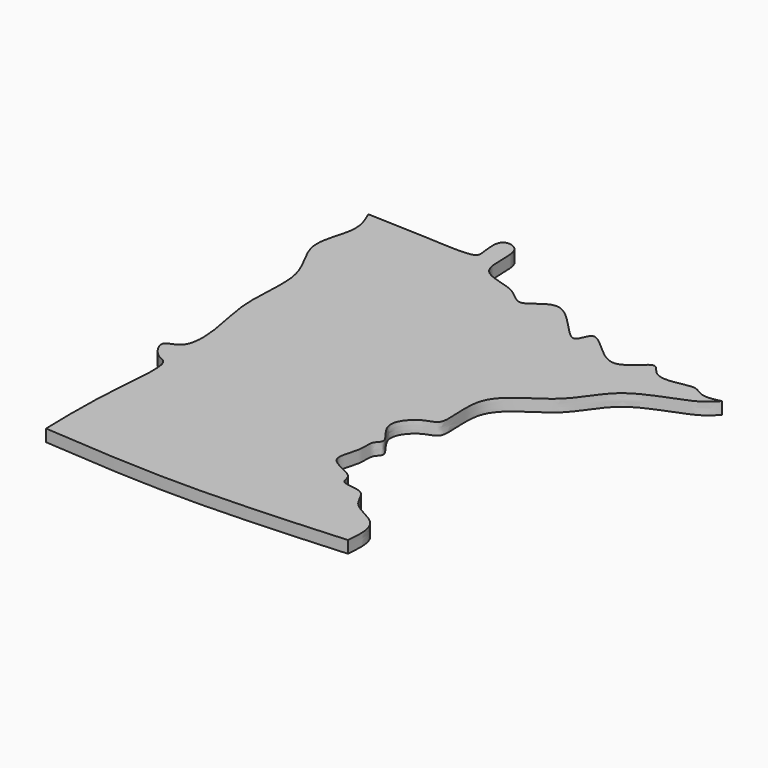
from build123d import *

# Parameters (mm, degrees)
F1_DEPTH = 3.175


with BuildPart() as f1:
    # F0 (on Top) → F1 (new body)
    with BuildSketch(Plane.XY):
        with BuildLine():
            add(Edge.make_bspline(
                [(-41.1111339927, 55.6392408907), (-36.2707867092, 55.4956637956), (-26.9903605617, 55.2203825916), (-12.5990621928, 54.1422364983), (-11.7507091659, 56.5533934537), (-13.6576304433, 64.326522536), (-5.3713743266, 63.0377239925), (-9.3307810358, 49.288798607), (3.4387049214, 49.0835573145), (7.8938352698, 41.8224343737), (15.5158704544, 53.166021384), (27.0758999149, 34.0386325293), (28.0946903161, 46.5942054186), (39.383222098, 30.0769485144), (46.7085098637, 42.5260456605), (49.2750974865, 35.5897374192), (56.4839388404, 36.8672779097), (59.8825393511, 37.6227169623), (62.838962457, 35.0193620859), (65.8765595888, 35.7135302674), (67.5213932991, 36.0894165933)],
                knots=[0, 0, 0, 0, 0.0820902353, 0.1573920882, 0.1855427243, 0.2379642218, 0.2804740162, 0.3481041026, 0.4144347034, 0.4660046755, 0.5250844196, 0.6040809382, 0.6461759459, 0.7200448096, 0.7808114931, 0.8235493982, 0.8776338092, 0.9164770627, 0.9547730206, 1, 1, 1, 1], degree=3))
            add(Edge.make_bspline(
                [(-41.1111339927, 55.6392408907), (-40.1049119025, 53.3508370067), (-37.8987302417, 48.3334211389), (-43.6265497878, 37.3197369658), (-33.8855895367, 26.3270022708), (-37.1654834171, 9.6608099214), (-33.1570518853, -3.5623756083), (-33.1772921036, -14.5989463812), (-39.8600158149, -14.8013397453), (-35.6355980902, -21.167425285), (-31.1572079964, -21.1418928047), (-33.7135360454, -40.5934889432), (-33.4030194231, -53.3685567271), (-33.2384817302, -60.1378567517)],
                knots=[0, 0, 0, 0, 0.0777045389, 0.1703702695, 0.272174095, 0.3862846111, 0.495148581, 0.5810959033, 0.6365042556, 0.7020699554, 0.7527921237, 0.8690085789, 1, 1, 1, 1], degree=3))
            add(Edge.make_bspline(
                [(-33.2384817302, -60.1378567517), (-21.4977423446, -61.0238890222), (3.1153526888, -62.8813526589), (31.38736408, -61.0799624059), (46.1732894182, -60.1378567517)],
                knots=[0, 0, 0, 0, 0.4770119065, 1, 1, 1, 1], degree=3))
            add(Edge.make_bspline(
                [(46.1732894182, -60.1378567517), (46.4408855212, -57.1474101837), (47.0615506762, -50.2072152326), (36.8180623714, -47.7022210072), (35.9855564712, -40.5759648787), (28.471166583, -41.4744940357), (29.4645707201, -36.8597672381), (19.6139411295, -34.7136054362), (23.4926984721, -27.6414280251), (22.3698974331, -22.8746712588), (25.7828658056, -21.0765169361), (18.3367531443, -14.9625900366), (24.419501711, -8.211446186), (30.178148708, -8.1842844753), (25.5180940041, 8.202282857), (42.4713943297, 14.6410710566), (47.3537172237, 27.7382216097), (63.635901309, 31.7848005942), (66.5817848214, 35.0492802741), (67.5213932991, 36.0894165933)],
                knots=[0, 0, 0, 0, 0.0643511734, 0.1285910009, 0.1808552669, 0.2311712609, 0.2685750457, 0.3280706847, 0.3823374025, 0.4290260389, 0.4613609221, 0.5190572536, 0.5771110483, 0.6209380053, 0.6981930743, 0.7840393416, 0.864014188, 0.9497840338, 1, 1, 1, 1], degree=3))
        make_face()
    extrude(amount=F1_DEPTH)


solid = f1.part
